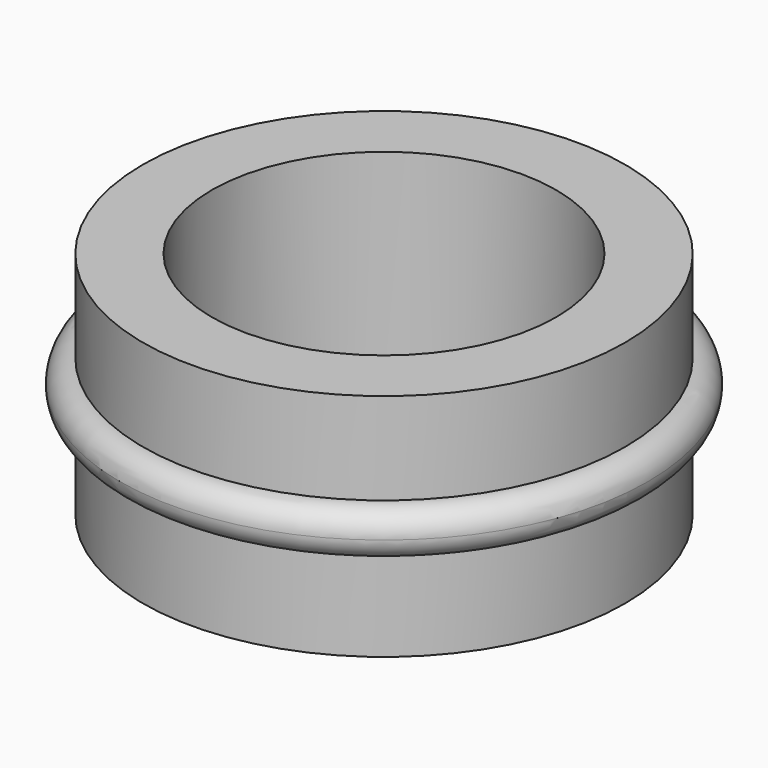
from build123d import *


with BuildPart() as f1:
    # F0 (on Front) → F1 (revolve)
    with BuildSketch(Plane.XZ):
        with BuildLine():
            Line((37.5, 50), (37.5, 0))
            Line((37.5, 0), (52.5, 0))
            Line((52.5, 0), (52.5, 20))
            ThreePointArc((52.5, 20), (47.5, 25), (52.5, 30))
            Line((52.5, 30), (52.5, 50))
            Line((52.5, 50), (37.5, 50))
        make_face()
    revolve(axis=Axis((0, 0, 25), (0, 0, 1)))


with BuildPart() as f1b:
    # F0 (on Front) → F1, piece 2 (revolve)
    with BuildSketch(Plane.XZ):
        with BuildLine():
            Line((52.5, 30), (52.5, 20))
            ThreePointArc((52.5, 20), (56.0355339059, 21.4644660941), (57.5, 25))
            ThreePointArc((57.5, 25), (56.0355339059, 28.5355339059), (52.5, 30))
        make_face()
    revolve(axis=Axis((0, 0, 25), (0, 0, 1)))


solid = Compound([f1.part, f1b.part])
